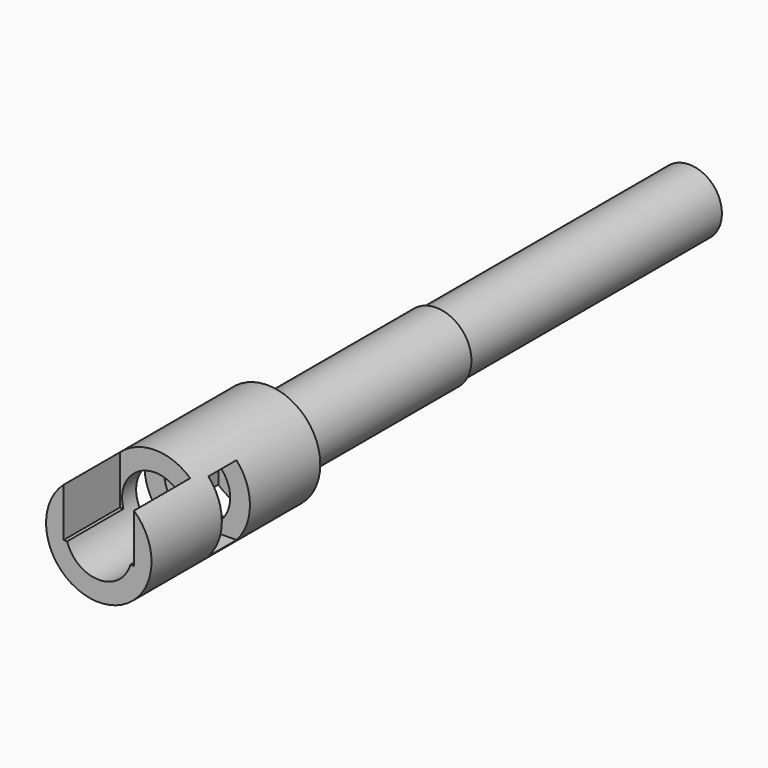
from build123d import *

# Parameters (mm, degrees)
F0_R      = 50.8
F0_R_2    = 47.625
F1_DEPTH  = 304.8
F3_START  = -152.4
F2_R      = 47.0088750141
F2_R_2    = 43.8338750141
F3_DEPTH  = 609.6
F4_START  = -152.4
F4_DEPTH  = 3.175
F5_R      = 76.2
F5_R_2    = 50.8
F6_DEPTH  = 304.8
F8_START  = 127
F7_W      = 152.4
F7_H      = 101.6
F8_DEPTH  = 50.8
F10_START = 203.2
F9_W      = 101.6
F9_H      = 152.4
F10_DEPTH = 101.6
F12_START = 25.4
F11_W     = 101.6
F11_H     = 177.8
F12_DEPTH = 76.2


with BuildPart() as f1:
    # F0 (on Front) → F1 (new body, symmetric)
    with BuildSketch(Plane.XZ):
        Circle(F0_R)
        Circle(F0_R_2, mode=Mode.SUBTRACT)
    extrude(amount=F1_DEPTH, both=True)

    # F5 (on Front) → F6 (join)
    with BuildSketch(Plane.XZ):
        Circle(F5_R)
        Circle(F5_R_2, mode=Mode.SUBTRACT)
    extrude(amount=F6_DEPTH)

    # F7 (on Front) → F8 (cut)
    with BuildSketch(Plane.XZ.offset(F8_START)):
        Rectangle(F7_W, F7_H)
    extrude(amount=F8_DEPTH, mode=Mode.SUBTRACT)

    # F9 (on Front) → F10 (cut)
    with BuildSketch(Plane.XZ.offset(F10_START)):
        with Locations((0, 62.6713027543)):
            Rectangle(F9_W, F9_H)
    extrude(amount=F10_DEPTH, mode=Mode.SUBTRACT)

    # F11 (on Front) → F12 (cut)
    with BuildSketch(Plane.XZ.offset(F12_START)):
        with Locations((0, -96.8955837568)):
            Rectangle(F11_W, F11_H)
    extrude(amount=F12_DEPTH, mode=Mode.SUBTRACT)


with BuildPart() as f3:
    # F2 (on Front) → F3 (new body)
    with BuildSketch(Plane.XZ.offset(F3_START)):
        Circle(F2_R)
        Circle(F2_R_2, mode=Mode.SUBTRACT)
    extrude(amount=-F3_DEPTH)

    # F2 (on Front) → F4 (join)
    with BuildSketch(Plane.XZ.offset(F4_START)):
        Circle(F2_R_2)
    extrude(amount=-F4_DEPTH)


solid = Compound([f1.part, f3.part])
